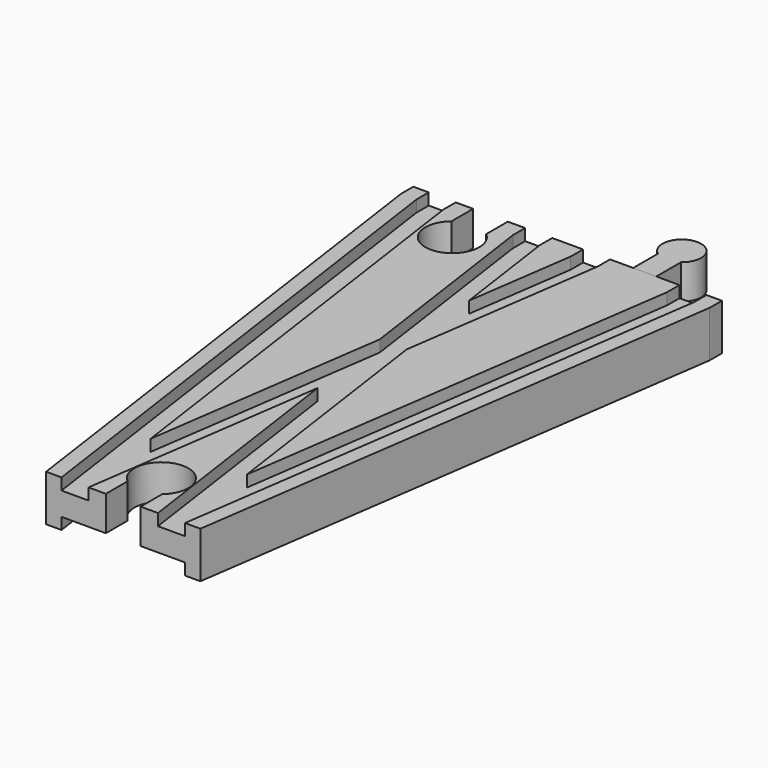
from build123d import *

# Parameters (mm, degrees)
SKETCH004_W          = 32
SKETCH004_H          = 3
SKETCH005_W          = 7
SKETCH005_H          = 3
SKETCH006_W          = 7
SKETCH006_H          = 3
POCKET_DEPTH         = 6.001
POCKET_DEPTH_BACK    = -6.001
POCKET001_DEPTH      = 6.001
POCKET001_DEPTH_BACK = -6.001
PAD002_DEPTH         = 6
PAD002_DEPTH_BACK    = 3


with BuildPart() as body:
    # AdditivePipe: sweep along a path in Sketch
    with BuildLine(Plane.XY) as additivepipe_path:
        Line((-20, 144), (-20, 140))
        Line((-20, 140), (0, 0))
    # Sketch002 → AdditivePipe (sweep)
    with BuildSketch(Plane.XZ):
        Polygon((-20, 6), (-20, -6), (-16, -6), (-16, -3), (-9, -3), (9, -3), (16, -3), (16, -6), (20, -6), (20, 6), (16, 6), (16, 3), (9, 3), (9, 6), (-9, 6), (-9, 3), (-16, 3), (-16, 6), align=None)
    sweep(path=additivepipe_path.line)

    # AdditivePipe001: sweep along a path in Sketch001
    with BuildLine(Plane.XY) as additivepipe001_path:
        Line((20, 144), (20, 140))
        Line((20, 140), (0, 0))
    # Sketch002 → AdditivePipe001 (sweep)
    with BuildSketch(Plane.XZ):
        Polygon((-20, 6), (-20, -6), (-16, -6), (-16, -3), (-9, -3), (9, -3), (16, -3), (16, -6), (20, -6), (20, 6), (16, 6), (16, 3), (9, 3), (9, 6), (-9, 6), (-9, 3), (-16, 3), (-16, 6), align=None)
    sweep(path=additivepipe001_path.line)

    # SubtractivePipe: sweep along a path in Sketch
    with BuildLine(Plane.XY) as subtractivepipe_path:
        Line((-20, 144), (-20, 140))
        Line((-20, 140), (0, 0))
    # Sketch004 → SubtractivePipe (sweep, cut)
    with BuildSketch(Plane.XZ):
        with Locations((0, -4.5)):
            Rectangle(SKETCH004_W, SKETCH004_H)
    sweep(path=subtractivepipe_path.line, mode=Mode.SUBTRACT)

    # SubtractivePipe001: sweep along a path in Sketch001
    with BuildLine(Plane.XY) as subtractivepipe001_path:
        Line((20, 144), (20, 140))
        Line((20, 140), (0, 0))
    # Sketch004 → SubtractivePipe001 (sweep, cut)
    with BuildSketch(Plane.XZ):
        with Locations((0, -4.5)):
            Rectangle(SKETCH004_W, SKETCH004_H)
    sweep(path=subtractivepipe001_path.line, mode=Mode.SUBTRACT)

    # SubtractivePipe002: sweep along a path in Sketch
    with BuildLine(Plane.XY) as subtractivepipe002_path:
        Line((-20, 144), (-20, 140))
        Line((-20, 140), (0, 0))
    # Sketch005 → SubtractivePipe002 (sweep, cut)
    with BuildSketch(Plane.XZ):
        with Locations((-12.5, 4.5)):
            Rectangle(SKETCH005_W, SKETCH005_H)
    sweep(path=subtractivepipe002_path.line, mode=Mode.SUBTRACT)

    # SubtractivePipe003: sweep along a path in Sketch001
    with BuildLine(Plane.XY) as subtractivepipe003_path:
        Line((20, 144), (20, 140))
        Line((20, 140), (0, 0))
    # Sketch005 → SubtractivePipe003 (sweep, cut)
    with BuildSketch(Plane.XZ):
        with Locations((-12.5, 4.5)):
            Rectangle(SKETCH005_W, SKETCH005_H)
    sweep(path=subtractivepipe003_path.line, mode=Mode.SUBTRACT)

    # SubtractivePipe004: sweep along a path in Sketch
    with BuildLine(Plane.XY) as subtractivepipe004_path:
        Line((-20, 144), (-20, 140))
        Line((-20, 140), (0, 0))
    # Sketch006 → SubtractivePipe004 (sweep, cut)
    with BuildSketch(Plane.XZ):
        with Locations((12.5, 4.5)):
            Rectangle(SKETCH006_W, SKETCH006_H)
    sweep(path=subtractivepipe004_path.line, mode=Mode.SUBTRACT)

    # SubtractivePipe005: sweep along a path in Sketch001
    with BuildLine(Plane.XY) as subtractivepipe005_path:
        Line((20, 144), (20, 140))
        Line((20, 140), (0, 0))
    # Sketch006 → SubtractivePipe005 (sweep, cut)
    with BuildSketch(Plane.XZ):
        with Locations((12.5, 4.5)):
            Rectangle(SKETCH006_W, SKETCH006_H)
    sweep(path=subtractivepipe005_path.line, mode=Mode.SUBTRACT)

    # Sketch003 → Pocket (cut, two sides)
    with BuildSketch(Plane.XY) as pocket_sk:
        with BuildLine():
            Line((-4.5, 0), (4.5, 0))
            Line((4.5, 0), (4.5, 7))
            ThreePointArc((4.5, 7), (0, 19.361903), (-4.5, 7))
            Line((-4.5, 0), (-4.5, 7))
        make_face()
    extrude(amount=-POCKET_DEPTH, mode=Mode.SUBTRACT)
    extrude(pocket_sk.sketch, amount=-POCKET_DEPTH_BACK, mode=Mode.SUBTRACT)

    # Sketch007 → Pocket001 (cut, two sides)
    with BuildSketch(Plane.XY) as pocket001_sk:
        with BuildLine():
            Line((-24.5, 144), (-15.5, 144))
            Line((-15.5, 144), (-15.5, 137))
            ThreePointArc((-24.5, 137), (-20, 124.638097), (-15.5, 137))
            Line((-24.5, 144), (-24.5, 137))
        make_face()
    extrude(amount=-POCKET001_DEPTH, mode=Mode.SUBTRACT)
    extrude(pocket001_sk.sketch, amount=-POCKET001_DEPTH_BACK, mode=Mode.SUBTRACT)


with BuildPart() as male3:
    # Sketch011 → Pad002 (new body, two sides)
    with BuildSketch(Plane.XY) as pad002_sk:
        with BuildLine():
            Line((17, 144), (23, 144))
            Line((23, 144), (23, 152))
            ThreePointArc((23, 152), (20, 161), (17, 152))
            Line((17, 144), (17, 152))
        make_face()
    extrude(amount=PAD002_DEPTH)
    extrude(pad002_sk.sketch, amount=-PAD002_DEPTH_BACK)


solid = Compound([body.part, male3.part])
